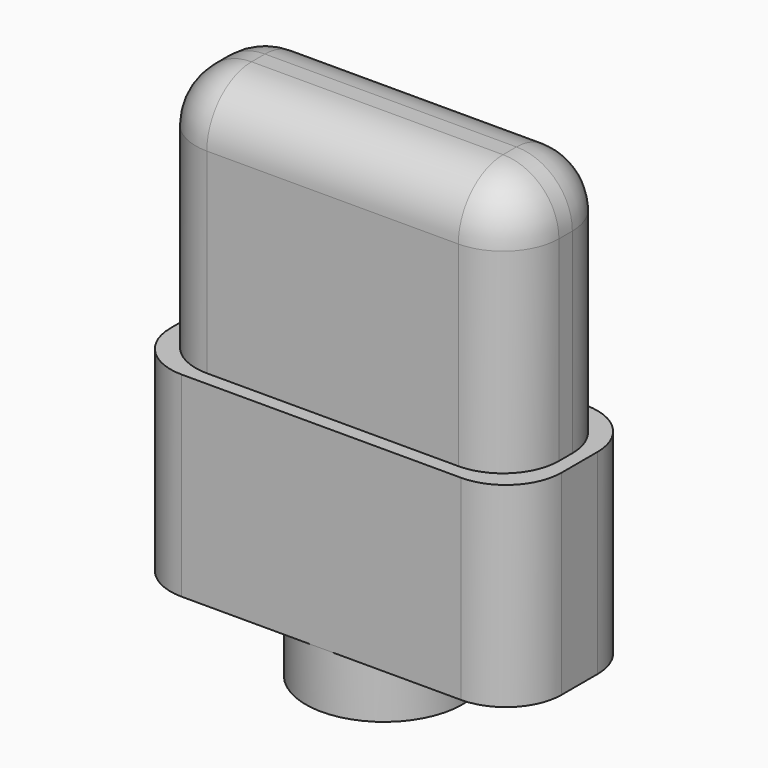
from build123d import *

# Parameters (mm, degrees)
BOX001_W       = 7
BOX001_H       = 2.8
BOX001_DEPTH   = 3.5
FILLET001_R    = 1
CYLINDER_R     = 1.4
CYLINDER_DEPTH = 1
BOX_W          = 6.5
BOX_H          = 2.3
BOX_DEPTH      = 6
FILLET_R       = 1


with BuildPart() as fillet001:
    # Box001 → Box001 (new body)
    with BuildSketch(Plane(origin=(-0.25, -0.25, -2), x_dir=(1, 0, 0), z_dir=(0, 0, 1))):
        with Locations((3.5, 1.4)):
            Rectangle(BOX001_W, BOX001_H)
    extrude(amount=BOX001_DEPTH)

    # Fillet001
    fillet001_edges = [fillet001.edges().sort_by_distance(p)[0] for p in [
        (-0.25, -0.25, -0.25),
        (-0.25, 2.55, -0.25),
        (6.75, -0.25, -0.25),
        (6.75, 2.55, -0.25),
    ]]
    fillet(fillet001_edges, radius=FILLET001_R)


with BuildPart() as cylinder:
    # Cylinder → Cylinder (new body)
    with BuildSketch(Plane(origin=(3.25, 1.15, -3), x_dir=(1, 0, 0), z_dir=(0, 0, 1))):
        Circle(CYLINDER_R)
    extrude(amount=CYLINDER_DEPTH)


with BuildPart() as fusion:
    # Box → Box (new body)
    with BuildSketch(Plane.XY):
        with Locations((3.25, 1.15)):
            Rectangle(BOX_W, BOX_H)
    extrude(amount=BOX_DEPTH)

    # Fillet
    fillet_edges = [fusion.edges().sort_by_distance(p)[0] for p in [
        (0, 0, 3),
        (0, 1.15, 6),
        (0, 2.3, 3),
        (6.5, 0, 3),
        (6.5, 1.15, 6),
        (6.5, 2.3, 3),
        (3.25, 0, 6),
        (3.25, 2.3, 6),
    ]]
    fillet(fillet_edges, radius=FILLET_R)

    # Fusion: union Fillet001, Cylinder
    add(fillet001.part)
    add(cylinder.part)


solid = fusion.part
